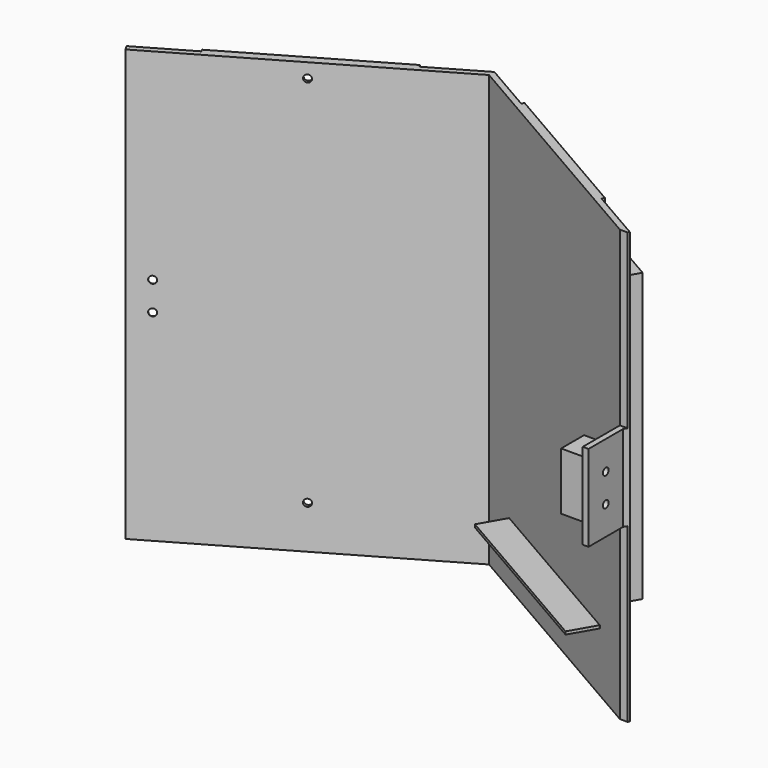
from build123d import *

# Parameters (mm, degrees)
PAD_DEPTH           = 150
SKETCH001_W         = 32.4797945384
SKETCH001_H         = 60
SKETCH001_W_2       = 36.6107585384
POCKET_DEPTH        = 5
SKETCH007_W         = 10
SKETCH007_H         = 20
PAD001_DEPTH        = 10
SKETCH002_R         = 1.25
HOLE_DEPTH          = 25
HOLE_TIPS_R         = 1.25
HOLE001_D           = 2.5
HOLE001_DEPTH       = 25
HOLE001_CSINK_D     = 6.1
HOLE001_CSINK_ANGLE = 90
HOLE001_TIPS_R      = 1.25
SKETCH006_W         = 74.5044810012
SKETCH006_H         = 25
SKETCH006_W_2       = 72.8484770001
POCKET001_DEPTH     = 11
SKETCH005_W         = 80.411114
SKETCH005_H         = 25
SKETCH005_W_2       = 78.205579
POCKET002_DEPTH     = 11
SKETCH009_W         = 67.6905989232
SKETCH009_H         = 1
PAD002_DEPTH        = 10
HOLE002_D           = 2.5
HOLE002_DEPTH       = 25
HOLE002_CSINK_D     = 6.1
HOLE002_CSINK_ANGLE = 90
HOLE002_TIPS_R      = 1.25


with BuildPart() as part:
    # Sketch → Pad (new body)
    with BuildSketch(Plane.XY):
        Polygon((84.6025403784, 1.1547005384), (0, 50), (-86.6025403784, 0), (-87.6025403784, 1.7320508076), (-69.7820323028, 12.0207259422), (-75.7820323028, 22.4130307876), (-23.8205080757, 52.4130307876), (-17.8205080757, 42.0207259422), (0, 52.3094010768), (17.3205080757, 42.3094010768), (23.3205080757, 52.7017059222), (75.2820323028, 22.7017059222), (69.2820323028, 12.3094010768), (87.6025403784, 1.7320508076), (86.6025403784, 0), (86.6025403784, -15), (84.6025403784, -15), align=None)
        Polygon((-71.6839560914, 21.3149545762), (-69.6839560914, 17.8508529611), (-22.6865334795, 44.4489291724), (-24.6865334795, 47.9130307876), align=None, mode=Mode.SUBTRACT)
        Polygon((69.1839560914, 18.1395280957), (71.1839560914, 21.6036297108), (24.418584287, 48.6036297108), (22.418584287, 45.1395280957), align=None, mode=Mode.SUBTRACT)
    extrude(amount=PAD_DEPTH)

    # Sketch001 (on Face4 of Pad) → Pocket (cut)
    with BuildSketch(Plane(origin=(84.6025403784, 0, 0), x_dir=(0, -1, 0), z_dir=(-1, 0, 0))):
        with Locations((15.0851967308, 30)):
            Rectangle(SKETCH001_W, SKETCH001_H)
        with Locations((17.1506787308, 120)):
            Rectangle(SKETCH001_W_2, SKETCH001_H)
    extrude(amount=-POCKET_DEPTH, mode=Mode.SUBTRACT)

    # Sketch007 (on Face30 of Pocket) → Pad001 (join)
    with BuildSketch(Plane(origin=(84.6025403784, 0, 0), x_dir=(0, -1, 0), z_dir=(-1, 0, 0))):
        with Locations((6.9226497308, 75)):
            Rectangle(SKETCH007_W, SKETCH007_H)
    extrude(amount=PAD001_DEPTH)

    # Sketch002 (on Face5 of Pocket) → Hole (cut)
    with BuildSketch(Plane.YZ.offset(86.6025403784)):
        with Locations((-7.5, 80)):
            Circle(SKETCH002_R)
        with Locations((-7.5, 70)):
            Circle(SKETCH002_R)
    extrude(amount=-HOLE_DEPTH, mode=Mode.SUBTRACT)

    # Hole tips → Hole tip 1 section 0
    with BuildSketch(Plane.YZ.offset(61.6025403784), mode=Mode.PRIVATE) as hole_tip_1_s0:
        with Locations((-7.5, 80)):
            Circle(HOLE_TIPS_R)
    loft([hole_tip_1_s0.sketch, Vertex(60.8514646047, -7.5, 80)], mode=Mode.SUBTRACT)

    # Hole tips → Hole tip 2 section 0
    with BuildSketch(Plane.YZ.offset(61.6025403784), mode=Mode.PRIVATE) as hole_tip_2_s0:
        with Locations((-7.5, 70)):
            Circle(HOLE_TIPS_R)
    loft([hole_tip_2_s0.sketch, Vertex(60.8514646047, -7.5, 70)], mode=Mode.SUBTRACT)

    # Hole001
    with Locations(Plane(origin=(-22.6506350946, 39.2320508076, 0), x_dir=(-0.8660254038, -0.5, 0), z_dir=(-0.5, 0.8660254038, 0))):
        with Locations((67.5, 80), (67.5, 70)):
            CounterSinkHole(HOLE001_D / 2, HOLE001_CSINK_D / 2, depth=HOLE001_DEPTH, counter_sink_angle=HOLE001_CSINK_ANGLE)

    # Hole001 tips → Hole001 tip 1 section 0
    with BuildSketch(Plane(origin=(-10.1506350946, 17.581415713, 0), x_dir=(-0.8660254038, -0.5, 0), z_dir=(-0.5, 0.8660254038, 0)), mode=Mode.PRIVATE) as hole001_tip_1_s0:
        with Locations((67.5, 80)):
            Circle(HOLE001_TIPS_R)
    loft([hole001_tip_1_s0.sketch, Vertex(-68.2318119632, -16.8190349873, 80)], mode=Mode.SUBTRACT)

    # Hole001 tips → Hole001 tip 2 section 0
    with BuildSketch(Plane(origin=(-10.1506350946, 17.581415713, 0), x_dir=(-0.8660254038, -0.5, 0), z_dir=(-0.5, 0.8660254038, 0)), mode=Mode.PRIVATE) as hole001_tip_2_s0:
        with Locations((67.5, 70)):
            Circle(HOLE001_TIPS_R)
    loft([hole001_tip_2_s0.sketch, Vertex(-68.2318119632, -16.8190349873, 70)], mode=Mode.SUBTRACT)

    # Sketch006 (on Face15 of Pocket) → Pocket001 (cut)
    with BuildSketch(Plane(origin=(-28.6506350946, 49.624355653, 0), x_dir=(-0.8660254038, -0.5, 0), z_dir=(-0.5, 0.8660254038, 0))):
        with Locations((24.7169745006, 137.5)):
            Rectangle(SKETCH006_W, SKETCH006_H)
        with Locations((24.0525555, 12.5)):
            Rectangle(SKETCH006_W_2, SKETCH006_H)
    extrude(amount=-POCKET001_DEPTH, mode=Mode.SUBTRACT)

    # Sketch005 (on Face20 of Pocket) → Pocket002 (cut)
    with BuildSketch(Plane(origin=(28.6506350946, 49.624355653, 0), x_dir=(-0.8660254038, 0.5, 0), z_dir=(0.5, 0.8660254038, 0))):
        with Locations((-23.058333, 137.5)):
            Rectangle(SKETCH005_W, SKETCH005_H)
        with Locations((-22.9755485, 12.5)):
            Rectangle(SKETCH005_W_2, SKETCH005_H)
    extrude(amount=-POCKET002_DEPTH, mode=Mode.SUBTRACT)

    # Sketch009 (on Face10 of Pocket) → Pad002 (join)
    with BuildSketch(Plane(origin=(21.6506350946, 37.5, 0), x_dir=(0.8660254038, -0.5, 0), z_dir=(-0.5, -0.8660254038, 0))):
        with Locations((23.8452994616, 21)):
            Rectangle(SKETCH009_W, SKETCH009_H)
    extrude(amount=PAD002_DEPTH)

    # Hole002
    with Locations(Plane(origin=(-23.1506350946, 40.0980762114, 0), x_dir=(-0.8660254038, -0.5, 0), z_dir=(-0.5, 0.8660254038, 0))):
        with Locations((24.9226497308, 145), (24.9226497308, 15)):
            CounterSinkHole(HOLE002_D / 2, HOLE002_CSINK_D / 2, depth=HOLE002_DEPTH, counter_sink_angle=HOLE002_CSINK_ANGLE)

    # Hole002 tips → Hole002 tip 1 section 0
    with BuildSketch(Plane(origin=(-10.6506350946, 18.4474411167, 0), x_dir=(-0.8660254038, -0.5, 0), z_dir=(-0.5, 0.8660254038, 0)), mode=Mode.PRIVATE) as hole002_tip_1_s0:
        with Locations((24.9226497308, 145)):
            Circle(HOLE002_TIPS_R)
    loft([hole002_tip_1_s0.sketch, Vertex(-31.8587450042, 5.3356655511, 145)], mode=Mode.SUBTRACT)

    # Hole002 tips → Hole002 tip 2 section 0
    with BuildSketch(Plane(origin=(-10.6506350946, 18.4474411167, 0), x_dir=(-0.8660254038, -0.5, 0), z_dir=(-0.5, 0.8660254038, 0)), mode=Mode.PRIVATE) as hole002_tip_2_s0:
        with Locations((24.9226497308, 15)):
            Circle(HOLE002_TIPS_R)
    loft([hole002_tip_2_s0.sketch, Vertex(-31.8587450042, 5.3356655511, 15)], mode=Mode.SUBTRACT)


solid = part.part
